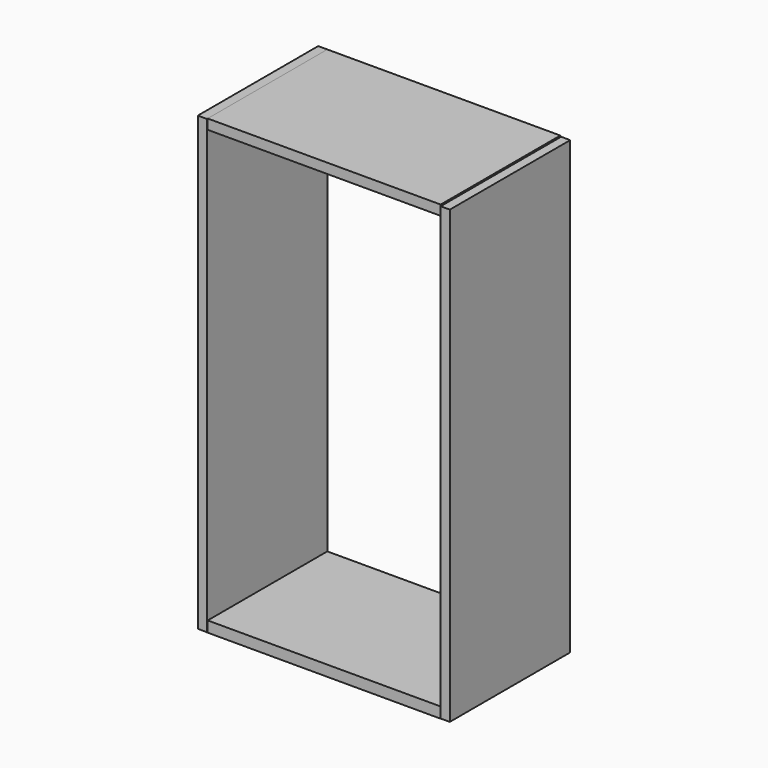
from build123d import *

# Parameters (mm, degrees)
F0_W     = 18.173083
F0_H     = 900.393337
F0_W_2   = 18.173069
F0_H_2   = 898.741246
F1_DEPTH = 300
F2_W     = 464.239493
F2_H     = 19.82519
F2_W_2   = 467.543691
F2_H_2   = 21.477252
F3_DEPTH = 298


with BuildPart() as f1:
    # F0 (on Front) → F1 (new body)
    with BuildSketch(Plane.XZ):
        with Locations((-242.858387, 0.826046)):
            Rectangle(F0_W, F0_H)
        with Locations((241.206273, 0)):
            Rectangle(F0_W_2, F0_H_2)
    extrude(amount=F1_DEPTH)


with BuildPart() as f3:
    # F2 (on Front) → F3 (new body)
    with BuildSketch(Plane.XZ):
        with Locations((-1.652099, 441.110119)):
            Rectangle(F2_W, F2_H)
        with Locations((-3.304198, -440.284088)):
            Rectangle(F2_W_2, F2_H_2)
    extrude(amount=F3_DEPTH)


solid = Compound([f1.part, f3.part])
